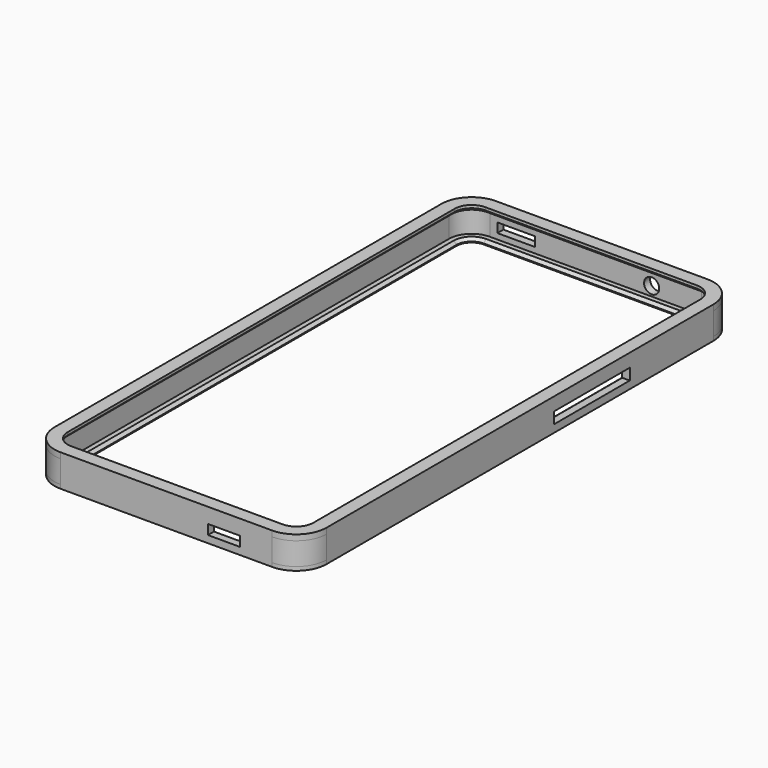
from build123d import *

# Parameters (mm, degrees)
F0_W      = 72
F0_H      = 144
F1_DEPTH  = 6
F2_R      = 8
F3_R      = 5.8
F3_R_2    = 2
F4_DEPTH  = 25
F5_W      = 25
F5_H      = 3
F6_DEPTH  = 25
F7_W      = 8.5
F7_H      = 2.6
F8_DEPTH  = 25
F9_R      = 2
F9_W      = 10
F9_H      = 2.5
F10_DEPTH = 25
F12_DEPTH = 25
F14_DEPTH = 1.5
F16_DEPTH = 1
F17_SIZE  = 0.75


with BuildPart() as f1:
    # F0 (on Top) → F1 (new body)
    with BuildSketch(Plane.XY):
        Rectangle(F0_W, F0_H)
    extrude(amount=F1_DEPTH)

    # F2
    f2_edges = [f1.edges().sort_by_distance(p)[0] for p in [
        (-36, 72, 3),
        (36, 72, 3),
        (36, -72, 3),
        (-36, -72, 3),
    ]]
    fillet(f2_edges, radius=F2_R)

    # F3 (on Top) → F4 (cut)
    with BuildSketch(Plane.XY):
        with Locations((0, 47)):
            Circle(F3_R)
        with Locations((9.6, 47)):
            Circle(F3_R_2)
    extrude(amount=-F4_DEPTH, mode=Mode.SUBTRACT)

    # F5 (on face) → F6 (cut)
    with BuildSketch(Plane.YZ.offset(36)):
        with Locations((23.8, 2.5)):
            Rectangle(F5_W, F5_H)
    extrude(amount=-F6_DEPTH, mode=Mode.SUBTRACT)

    # F7 (on face) → F8 (cut)
    with BuildSketch(Plane.XZ.offset(72)):
        with Locations((15.25, 2.2)):
            Rectangle(F7_W, F7_H)
    extrude(amount=-F8_DEPTH, mode=Mode.SUBTRACT)

    # F9 (on face) → F10 (cut)
    with BuildSketch(Plane(origin=(0, 72, 0), x_dir=(-1, 0, 0), z_dir=(0, 1, 0))):
        with Locations((-14.83, 2.5)):
            Circle(F9_R)
        with Locations((21, 2.75)):
            Rectangle(F9_W, F9_H)
    extrude(amount=-F10_DEPTH, mode=Mode.SUBTRACT)

    # F11 (on face) → F12 (cut)
    with BuildSketch(Plane.XY.offset(6)):
        with BuildLine():
            Line((28, 70), (-28, 70))
            ThreePointArc((-28, 70), (-32.2426406871, 68.2426406871), (-34, 64))
            Line((-34, 64), (-34, -64))
            ThreePointArc((-34, -64), (-32.2426406871, -68.2426406871), (-28, -70))
            Line((-28, -70), (28, -70))
            ThreePointArc((28, -70), (32.2426406871, -68.2426406871), (34, -64))
            Line((34, -64), (34, 64))
            ThreePointArc((34, 64), (32.2426406871, 68.2426406871), (28, 70))
        make_face()
    extrude(amount=-F12_DEPTH, mode=Mode.SUBTRACT)

    # F13 (on face) → F14 (join)
    with BuildSketch(Plane.XY.offset(6)):
        with BuildLine():
            Line((28, 72), (-28, 72))
            ThreePointArc((-28, 72), (-33.6568542495, 69.6568542495), (-36, 64))
            Line((-36, 64), (-36, -64))
            ThreePointArc((-36, -64), (-33.6568542495, -69.6568542495), (-28, -72))
            Line((-28, -72), (28, -72))
            ThreePointArc((28, -72), (33.6568542495, -69.6568542495), (36, -64))
            Line((36, -64), (36, 64))
            ThreePointArc((36, 64), (33.6568542495, 69.6568542495), (28, 72))
        make_face()
        with BuildLine():
            ThreePointArc((-28, -68.5), (-31.1819805153, -67.1819805153), (-32.5, -64))
            Line((-32.5, -64), (-32.5, 64))
            ThreePointArc((-32.5, 64), (-31.1819805153, 67.1819805153), (-28, 68.5))
            Line((-28, 68.5), (28, 68.5))
            ThreePointArc((28, 68.5), (31.1819805153, 67.1819805153), (32.5, 64))
            Line((32.5, 64), (32.5, -64))
            ThreePointArc((32.5, -64), (31.1819805153, -67.1819805153), (28, -68.5))
            Line((28, -68.5), (-28, -68.5))
        make_face(mode=Mode.SUBTRACT)
    extrude(amount=F14_DEPTH)

    # F15 (on face) → F16 (join)
    with BuildSketch(Plane(origin=(0, 0, 0), x_dir=(1, 0, 0), z_dir=(0, 0, -1))):
        with BuildLine():
            Line((-28, -72), (28, -72))
            ThreePointArc((28, -72), (33.6568542495, -69.6568542495), (36, -64))
            Line((36, -64), (36, 64))
            ThreePointArc((36, 64), (33.6568542495, 69.6568542495), (28, 72))
            Line((28, 72), (-28, 72))
            ThreePointArc((-28, 72), (-33.6568542495, 69.6568542495), (-36, 64))
            Line((-36, 64), (-36, -64))
            ThreePointArc((-36, -64), (-33.6568542495, -69.6568542495), (-28, -72))
        make_face()
        with BuildLine():
            ThreePointArc((28, 70), (32.2426406871, 68.2426406871), (34, 64))
            Line((34, 64), (34, -64))
            ThreePointArc((34, -64), (32.2426406871, -68.2426406871), (28, -70))
            Line((28, -70), (-28, -70))
            ThreePointArc((-28, -70), (-32.2426406871, -68.2426406871), (-34, -64))
            Line((-34, -64), (-34, 64))
            ThreePointArc((-34, 64), (-32.2426406871, 68.2426406871), (-28, 70))
            Line((-28, 70), (28, 70))
        make_face(mode=Mode.SUBTRACT)
        with BuildLine():
            Line((34, -64), (34, 64))
            ThreePointArc((34, 64), (32.2426406871, 68.2426406871), (28, 70))
            Line((28, 70), (-28, 70))
            ThreePointArc((-28, 70), (-32.2426406871, 68.2426406871), (-34, 64))
            Line((-34, 64), (-34, -64))
            ThreePointArc((-34, -64), (-32.2426406871, -68.2426406871), (-28, -70))
            Line((-28, -70), (28, -70))
            ThreePointArc((28, -70), (32.2426406871, -68.2426406871), (34, -64))
        make_face()
        with BuildLine():
            ThreePointArc((-32, 64), (-30.8284271247, 66.8284271247), (-28, 68))
            Line((-28, 68), (28, 68))
            ThreePointArc((28, 68), (30.8284271247, 66.8284271247), (32, 64))
            Line((32, 64), (32, -64))
            ThreePointArc((32, -64), (30.8284271247, -66.8284271247), (28, -68))
            Line((28, -68), (-28, -68))
            ThreePointArc((-28, -68), (-30.8284271247, -66.8284271247), (-32, -64))
            Line((-32, -64), (-32, 64))
        make_face(mode=Mode.SUBTRACT)
    extrude(amount=F16_DEPTH)

    # F17
    f17_edges = [f1.edges().sort_by_distance(p)[0] for p in [
        (30.828427, -66.828427, 0),
        (31.181981, -67.181981, 6),
    ]]
    chamfer(f17_edges, length=F17_SIZE)


solid = f1.part
